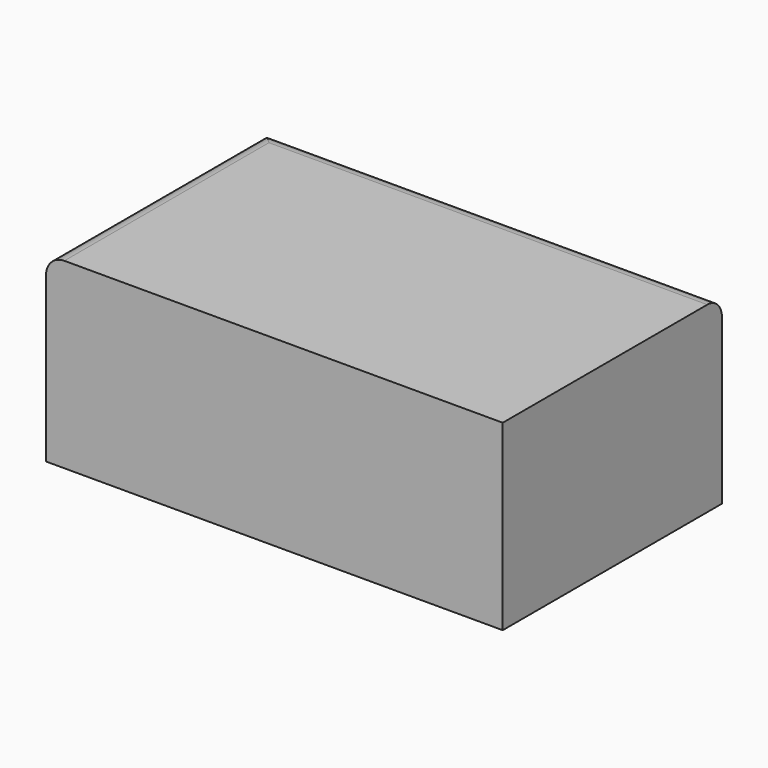
from build123d import *

# Parameters (mm, degrees)
F0_W     = 127
F0_H     = 50.8
F1_DEPTH = 38.1
F2_R     = 5.08


with BuildPart() as f1:
    # F0 (on Front) → F1 (new body, symmetric)
    with BuildSketch(Plane.XZ):
        with Locations((1.801427, -23.53057)):
            Rectangle(F0_W, F0_H)
    extrude(amount=F1_DEPTH, both=True)

    # F2
    f2_edges = [f1.edges().sort_by_distance(p)[0] for p in [
        (1.801427, 38.1, 1.86943),
        (-61.698573, 0, 1.86943),
    ]]
    fillet(f2_edges, radius=F2_R)


solid = f1.part
